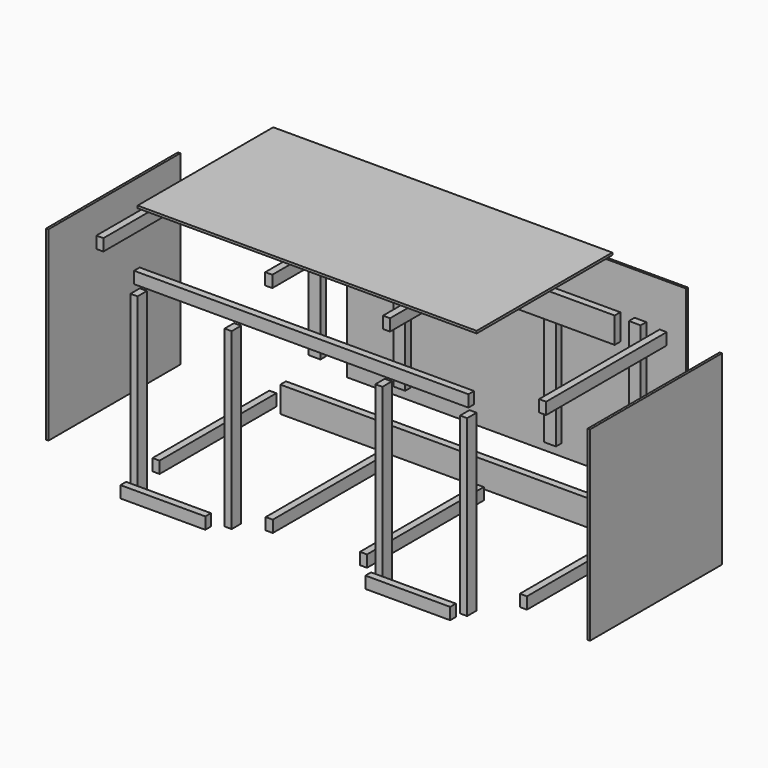
from build123d import *

# Parameters (mm, degrees)
F0_W      = 1828.8
F0_H      = 12.7
F1_DEPTH  = 914.4
F2_W      = 1803.4
F2_H      = 63.5
F3_DEPTH  = 38.1
F6_W      = 38.1
F6_H      = 939.8
F7_DEPTH  = 63.5
F12_W     = 38.1
F12_H     = 63.5
F13_DEPTH = 812.8
F15_W     = 1803.4
F15_H     = 139.7
F16_DEPTH = 38.1
F20_W     = 457.2
F20_H     = 63.5
F21_DEPTH = 38.1
F26_W     = 63.5
F26_H     = 723.9
F27_DEPTH = 38.1
F32_W     = 12.7
F32_H     = 1003.3
F33_DEPTH = 889
F35_W     = 1828.8
F35_H     = 1016
F36_DEPTH = 12.7
F38_W     = 38.1
F38_H     = 63.5
F39_DEPTH = 787.4
F45_W     = 38.1
F45_H     = 63.5
F46_DEPTH = 787.4
F52_W     = 38.1
F52_H     = 63.5
F53_DEPTH = 812.8


with BuildPart() as f1:
    # F0 (on Front) → F1 (new body)
    with BuildSketch(Plane.XZ):
        with Locations((836.790604, 161.146)):
            Rectangle(F0_W, F0_H)
    extrude(amount=F1_DEPTH)


with BuildPart() as f3:
    # F2 (on Front) → F3 (new body)
    with BuildSketch(Plane.XZ):
        with Locations((805.028101, 116.373709)):
            Rectangle(F2_W, F2_H)
    extrude(amount=F3_DEPTH)


with BuildPart() as f3_1:
    # F4: moved
    add(f3.part.moved(Location((-762, -939.8, 0))))


with BuildPart() as f1_1:
    # F5: moved
    add(f1.part.moved(Location((-812.8, 0, 0))))


with BuildPart() as f7:
    # F6 (on Front) → F7 (new body)
    with BuildSketch(Plane.XZ):
        with Locations((-838.740887, 87.532866)):
            Rectangle(F6_W, F6_H)
    extrude(amount=F7_DEPTH)


with BuildPart() as f7_1:
    # F8: moved
    add(f7.part.moved(Location((0, -939.8, -508))))


with BuildPart() as f9_1:
    # F9: copy of F7
    add(f7_1.part.moved(Location((1778, 0, 0))))


with BuildPart() as f10_1:
    # F10: copy of F7
    add(f7_1.part.moved(Location((508, 0, 0))))


with BuildPart() as f11_1:
    # F11: copy of F7
    add(f7_1.part.moved(Location((1320.8, 0, 0))))


with BuildPart() as f13:
    # F12 (on Front) → F13 (new body)
    with BuildSketch(Plane.XZ):
        with Locations((-920.97467, 107.217601)):
            Rectangle(F12_W, F12_H)
    extrude(amount=F13_DEPTH)


with BuildPart() as f14_1:
    # F14: copy of F13
    add(f13.part.moved(Location((1879.6, 0, 0))))


with BuildPart() as f16:
    # F15 (on Front) → F16 (new body)
    with BuildSketch(Plane.XZ):
        with Locations((39.250453, -27.845298)):
            Rectangle(F15_W, F15_H)
    extrude(amount=F16_DEPTH)


with BuildPart() as f17_1:
    # F17: copy of F16
    add(f16.part.moved(Location((0, 0, -762))))


with BuildPart() as f18_1:
    # F18: copy of F13
    add(f13.part.moved(Location((0, 0, -939.8))))


with BuildPart() as f19_1:
    # F19: copy of F14_1
    add(f14_1.part.moved(Location((0, 0, -939.8))))


with BuildPart() as f21:
    # F20 (on Front) → F21 (new body)
    with BuildSketch(Plane.XZ):
        with Locations((-581.202363, -823.503458)):
            Rectangle(F20_W, F20_H)
    extrude(amount=F21_DEPTH)


with BuildPart() as f21_1:
    # F22: moved
    add(f21.part.moved(Location((0, -965.2, 0))))


with BuildPart() as f23_1:
    # F23: copy of F21
    add(f21_1.part.moved(Location((1320.8, 0, 0))))


with BuildPart() as f24_1:
    # F24: copy of F13
    add(f13.part.moved(Location((508, 0, 0))))


with BuildPart() as f25_1:
    # F25: copy of F13
    add(f13.part.moved(Location((1320.8, 0, 0))))


with BuildPart() as f27:
    # F26 (on Front) → F27 (new body)
    with BuildSketch(Plane.XZ):
        with Locations((-799.41479, -346.435229)):
            Rectangle(F26_W, F26_H)
    extrude(amount=F27_DEPTH)


with BuildPart() as f27_1:
    # F28: moved
    add(f27.part.moved(Location((0, 76.2, 0))))


with BuildPart() as f29_1:
    # F29: copy of F27
    add(f27_1.part.moved(Location((457.2, 0, 0))))


with BuildPart() as f30_1:
    # F30: copy of F27
    add(f27_1.part.moved(Location((1270, 0, 0))))


with BuildPart() as f31_1:
    # F31: copy of F27
    add(f27_1.part.moved(Location((1727.2, 0, 0))))


with BuildPart() as f33:
    # F32 (on Front) → F33 (new body)
    with BuildSketch(Plane.XZ):
        with Locations((-1016.737859, -366.374588)):
            Rectangle(F32_W, F32_H)
    extrude(amount=F33_DEPTH)


with BuildPart() as f34_1:
    # F34: copy of F33
    add(f33.part.moved(Location((2032, 0, 0))))


with BuildPart() as f36:
    # F35 (on Front) → F36 (new body)
    with BuildSketch(Plane.XZ):
        with Locations((107.833129, -390.761213)):
            Rectangle(F35_W, F35_H)
    extrude(amount=F36_DEPTH)


with BuildPart() as f36_1:
    # F37: moved
    add(f36.part.moved(Location((0, 152.4, 0))))


with BuildPart() as f39:
    # F38 (on Front) → F39 (new body)
    with BuildSketch(Plane.XZ):
        with Locations((-281.682757, -821.970605)):
            Rectangle(F38_W, F38_H)
    extrude(amount=F39_DEPTH)


with BuildPart() as f40_1:
    # F40: copy of F39
    add(f39.part.moved(Location((508, 0, 0))))


with BuildPart() as f46:
    # F45 (on Front) → F46 (new body)
    with BuildSketch(Plane.XZ):
        with Locations((-892.360268, -867.374086)):
            Rectangle(F45_W, F45_H)
    extrude(amount=F46_DEPTH)


with BuildPart() as f47_1:
    # F47: copy of F46
    add(f46.part.moved(Location((1981.2, 0, 0))))


with BuildPart() as f48_1:
    # F48: copy of F46
    add(f46.part.moved(Location((533.4, 0, 762))))


with BuildPart() as f49_1:
    # F49: copy of F48_1
    add(f48_1.part.moved(Location((635, 0, 0))))


with BuildPart() as f53:
    # F52 (on Front) → F53 (new body)
    with BuildSketch(Plane.XZ):
        with Locations((-264.026923, -24.216299)):
            Rectangle(F52_W, F52_H)
    extrude(amount=F53_DEPTH)


with BuildPart() as f54_1:
    # F54: copy of F53
    add(f53.part.moved(Location((635, 0, 0))))


with BuildPart() as f33_1:
    # F55: moved
    add(f33.part.moved(Location((-381, 0, 0))))


with BuildPart() as f34_1_1:
    # F56: moved
    add(f34_1.part.moved(Location((-2286, 0, 0))))


with BuildPart() as f34_1_2:
    # F57: moved
    add(f34_1_1.part.moved(Location((2794, 0, 0))))


with BuildPart() as f1_2:
    # F58: moved
    add(f1_1.part.moved(Location((0, 0, 254))))


with BuildPart() as f36_2:
    # F59: moved
    add(f36_1.part.moved(Location((0, 254, 0))))


with BuildPart() as f13_1:
    # F60: moved
    add(f13.part.moved(Location((-254, 0, 0))))


with BuildPart() as f14_1_1:
    # F61: moved
    add(f14_1.part.moved(Location((254, 0, 0))))


with BuildPart() as f53_1:
    # F62: moved
    add(f53.part.moved(Location((0, 0, 254))))


with BuildPart() as f54_1_1:
    # F63: moved
    add(f54_1.part.moved(Location((0, 0, 254))))


with BuildPart() as f27_2:
    # F64: moved
    add(f27_1.part.moved(Location((0, 127, 0))))


with BuildPart() as f29_1_1:
    # F64: moved
    add(f29_1.part.moved(Location((0, 127, 0))))


with BuildPart() as f30_1_1:
    # F64: moved
    add(f30_1.part.moved(Location((0, 127, 0))))


with BuildPart() as f31_1_1:
    # F64: moved
    add(f31_1.part.moved(Location((0, 127, 0))))


with BuildPart() as f21_2:
    # F65: moved
    add(f21_1.part.moved(Location((0, -127, 0))))


with BuildPart() as f23_1_1:
    # F65: moved
    add(f23_1.part.moved(Location((0, -127, 0))))


with BuildPart() as f39_1:
    # F66: moved
    add(f39.part.moved(Location((0, 0, -127))))


with BuildPart() as f40_1_1:
    # F67: moved
    add(f40_1.part.moved(Location((0, 0, -127))))


with BuildPart() as f16_1:
    # F68: moved
    add(f16.part.moved(Location((0, 50.8, 76.2))))


with BuildPart() as f17_1_1:
    # F69: moved
    add(f17_1.part.moved(Location((0, 50.8, -76.2))))


solid = Compound([f3_1.part, f7_1.part, f9_1.part, f10_1.part, f11_1.part, f46.part, f47_1.part, f33_1.part, f34_1_2.part, f1_2.part, f36_2.part, f13_1.part, f14_1_1.part, f53_1.part, f54_1_1.part, f27_2.part, f29_1_1.part, f30_1_1.part, f31_1_1.part, f21_2.part, f23_1_1.part, f39_1.part, f40_1_1.part, f16_1.part, f17_1_1.part])
